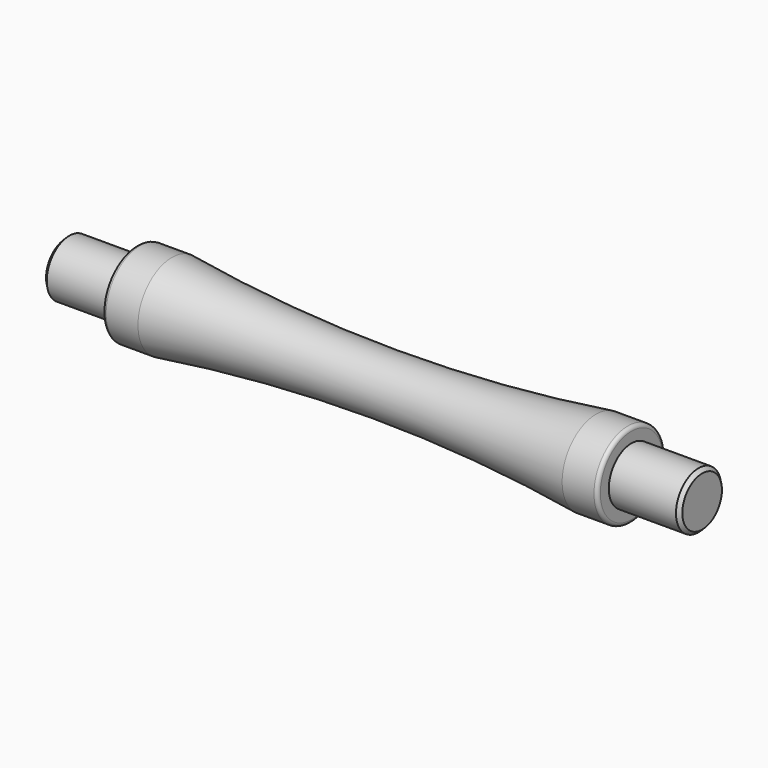
from build123d import *

# Parameters (mm, degrees)
F0_R     = 4
F1_DEPTH = 45
F2_R     = 6
F3_DEPTH = 35
F7_R     = 0.5
F8_SIZE  = 0.5


with BuildPart() as f1:
    # F0 (on Right) → F1 (new body, symmetric)
    with BuildSketch(Plane.YZ):
        Circle(F0_R)
    extrude(amount=F1_DEPTH, both=True)

    # F2 (on Right) → F3 (join, symmetric)
    with BuildSketch(Plane.YZ):
        Circle(F2_R)
    extrude(amount=F3_DEPTH, both=True)

    # F4 (on Front) → F6 (revolve, cut)
    with BuildSketch(Plane.XZ):
        with BuildLine():
            Line((30, 6), (-30, 6))
            ThreePointArc((-30, 6), (0, 4), (30, 6))
        make_face()
    revolve(axis=Axis((12.5838983804, 0, 0), (1, 0, 0)), mode=Mode.SUBTRACT)

    # F7
    f7_edges = [f1.edges().sort_by_distance(p)[0] for p in [
        (-35, -6, 0),
        (35, -6, 0),
    ]]
    fillet(f7_edges, radius=F7_R)

    # F8
    f8_edges = [f1.edges().sort_by_distance(p)[0] for p in [
        (-45, -4, 0),
        (45, -4, 0),
    ]]
    chamfer(f8_edges, length=F8_SIZE)


solid = f1.part
